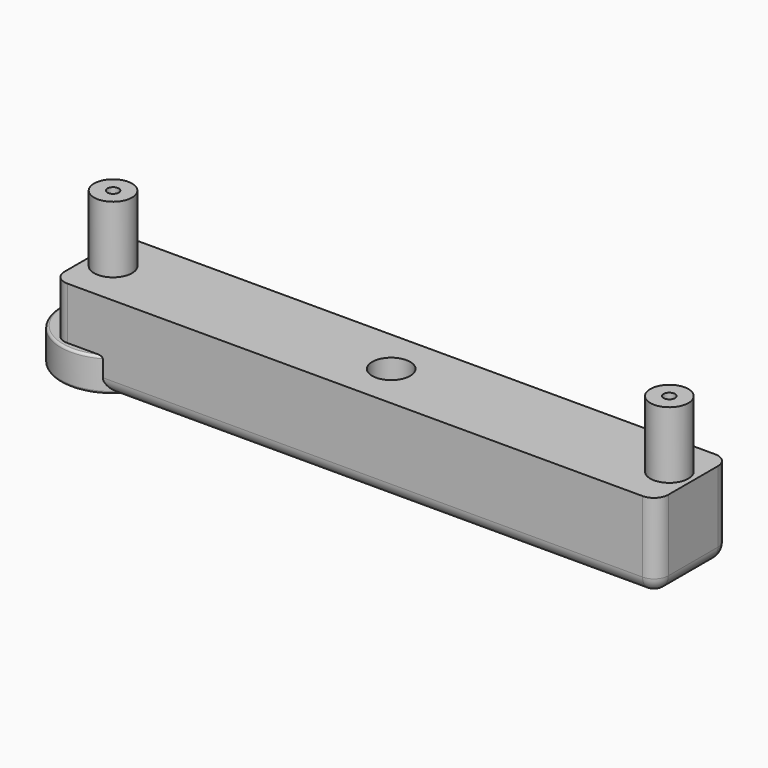
from build123d import *

# Parameters (mm, degrees)
F0_W     = 127
F0_H     = 19.05
F0_R     = 4
F1_DEPTH = 18
F2_DEPTH = 32
F4_D     = 2.4
F4_DEPTH = 10
F4_TIP   = 0.7210327428
F5_R     = 3
F6_R     = 11
F6_R_2   = 4
F7_DEPTH = 7
F8_R     = 0.5


with BuildPart() as f1:
    # F0 (on Top) → F1 (new body)
    with BuildSketch(Plane.XY):
        with Locations((63.5, -9.525)):
            Rectangle(F0_W, F0_H)
        with Locations((5, -9.525)):
            Circle(F0_R, mode=Mode.SUBTRACT)
        with Locations((63.5, -9.525)):
            Circle(F0_R, mode=Mode.SUBTRACT)
        with Locations((122, -9.525)):
            Circle(F0_R, mode=Mode.SUBTRACT)
        with Locations((5, -9.525)):
            Circle(F0_R)
        with Locations((122, -9.525)):
            Circle(F0_R)
    extrude(amount=F1_DEPTH)

    # F0 (on Top) → F2 (join)
    with BuildSketch(Plane.XY):
        with Locations((5, -9.525)):
            Circle(F0_R)
        with Locations((122, -9.525)):
            Circle(F0_R)
    extrude(amount=F2_DEPTH)

    # F4
    with Locations(Plane.XY.offset(32)):
        with Locations((5, -9.525), (122, -9.525)):
            Hole(F4_D / 2, depth=F4_DEPTH)
            with Locations((0, 0, -(F4_DEPTH + F4_TIP / 2))):  # 118° drill point
                Cone(0, F4_D / 2, F4_TIP, mode=Mode.SUBTRACT)

    # F5
    f5_edges = [f1.edges().sort_by_distance(p)[0] for p in [
        (127, -19.05, 9),
        (127, 0, 9),
        (0, 0, 9),
        (0, -19.05, 9),
        (63.5, -19.05, 0),
        (63.5, 0, 0),
        (0, -9.525, 0),
        (127, -9.525, 0),
    ]]
    fillet(f5_edges, radius=F5_R)


with BuildPart() as f7:
    # F6 (on Top) → F7 (new body)
    with BuildSketch(Plane.XY):
        with Locations((5, -9.525)):
            Circle(F6_R)
        with Locations((5, -9.525)):
            Circle(F6_R_2, mode=Mode.SUBTRACT)
    extrude(amount=F7_DEPTH)

    # F8
    f8_edges = [f7.edges().sort_by_distance(p)[0] for p in [
        (-6, -9.525, 7),
        (-6, -9.525, 0),
    ]]
    fillet(f8_edges, radius=F8_R)


solid = Compound([f1.part, f7.part])
